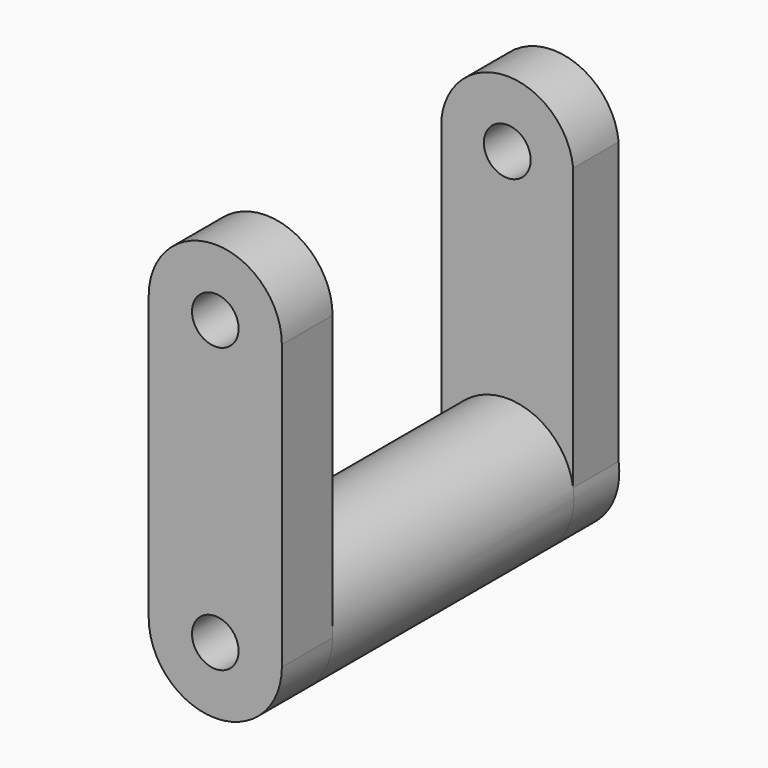
from build123d import *

# Parameters (mm, degrees)
F0_R     = 23.2127489618
F1_DEPTH = 105.156
F2_R     = 8.1279313569
F3_DEPTH = 22.098
F4_R     = 8.1619087152
F5_DEPTH = 19.812


with BuildPart() as f1:
    # F0 (on Front) → F1 (new body)
    with BuildSketch(Plane.XZ):
        with Locations((25.789950043, -54.8864603043)):
            Circle(F0_R)
    extrude(amount=-F1_DEPTH)

    # F2 (on face) → F3 (join)
    with BuildSketch(Plane.XZ):
        with BuildLine():
            Line((2.5772010811, 44.0855585039), (2.5772010811, -54.8864603043))
            ThreePointArc((2.5772010811, -54.8864603043), (25.789950043, -31.6737113424), (49.0026990048, -54.8864603043))
            Line((49.0026990048, -54.8864603043), (49.0026990048, 44.0855585039))
            ThreePointArc((49.0026990048, 44.0855585039), (25.789950043, 67.2983074657), (2.5772010811, 44.0855585039))
        make_face()
        with Locations((25.789950043, 44.0855585039)):
            Circle(F2_R, mode=Mode.SUBTRACT)
        with BuildLine():
            ThreePointArc((49.0026990048, -54.8864603043), (25.789950043, -31.6737113424), (2.5772010811, -54.8864603043))
            ThreePointArc((2.5772010811, -54.8864603043), (25.789950043, -78.0992092661), (49.0026990048, -54.8864603043))
        make_face()
        with Locations((25.789950043, -54.8864603043)):
            Circle(F2_R, mode=Mode.SUBTRACT)
    extrude(amount=F3_DEPTH)

    # F4 (on face) → F5 (join)
    with BuildSketch(Plane(origin=(0, 105.156, 0), x_dir=(-1, 0, 0), z_dir=(0, 1, 0))):
        with BuildLine():
            Line((-48.7791649624, 46.4776218361), (-48.7791649624, -51.6727845653))
            ThreePointArc((-48.7791649624, -51.6727845653), (-25.789950043, -31.6737113424), (-2.8007351236, -51.6727845653))
            Line((-2.8007351236, -51.6727845653), (-2.8007351236, 46.4776218361))
            ThreePointArc((-2.8007351236, 46.4776218361), (-25.789950043, 67.2522081192), (-48.7791649624, 46.4776218361))
        make_face()
        with Locations((-25.789950043, 44.144950416)):
            Circle(F4_R, mode=Mode.SUBTRACT)
        with BuildLine():
            ThreePointArc((-2.8007351236, -51.6727845653), (-25.789950043, -31.6737113424), (-48.7791649624, -51.6727845653))
            ThreePointArc((-48.7791649624, -51.6727845653), (-27.4006703184, -78.0432583247), (-2.5772010811, -54.8864603043))
            ThreePointArc((-2.5772010811, -54.8864603043), (-2.6331520225, -53.2757400288), (-2.8007351236, -51.6727845653))
        make_face()
        with Locations((-25.789950043, -54.8864603043)):
            Circle(F4_R, mode=Mode.SUBTRACT)
    extrude(amount=F5_DEPTH)


solid = f1.part
